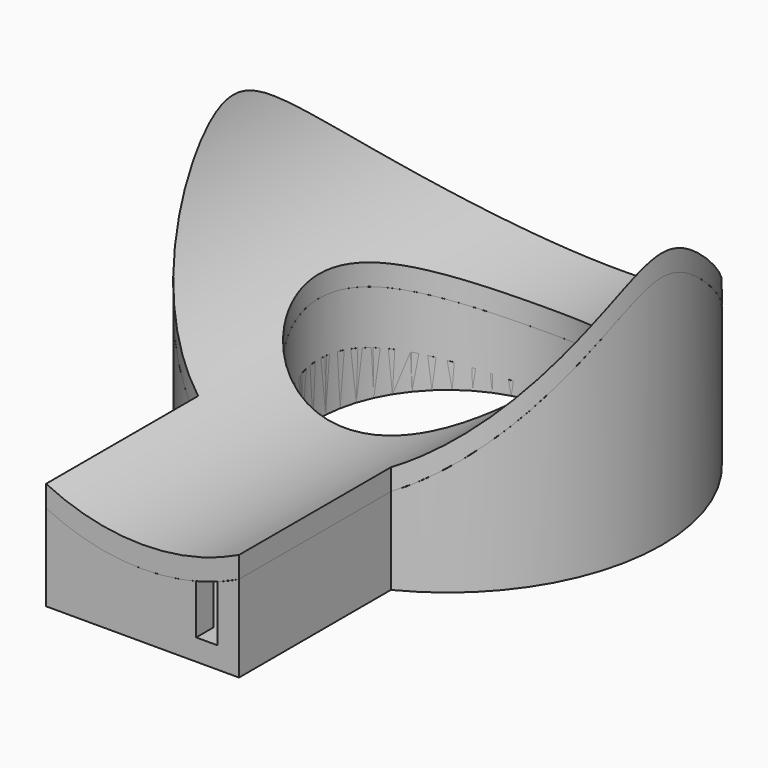
from build123d import *

# Parameters (mm, degrees)
SKETCH_R             = 20
PAD_DEPTH            = 30
SKETCH001_R          = 18
POCKET_DEPTH         = 40
POCKET001_DEPTH      = 20.001
POCKET001_DEPTH_BACK = -20.001
SKETCH014_W          = 14
SKETCH014_H          = 7.569522
POCKET010_DEPTH      = 6
SKETCH005_R          = 13
PAD002_DEPTH         = 30
POCKET003_DEPTH      = 13.001
POCKET003_DEPTH_BACK = -13.001
SKETCH007_R          = 12
POCKET004_DEPTH      = 10.650133
SKETCH003_R          = 18
PAD001_DEPTH         = 30
POCKET002_DEPTH      = 18.001
POCKET002_DEPTH_BACK = -18.001
SKETCH008_R          = 12
POCKET005_DEPTH      = 11.690292
SKETCH009_W          = 18
SKETCH009_H          = 20
PAD003_DEPTH         = 9
SKETCH010_W          = 14
SKETCH010_H          = 17
POCKET006_DEPTH      = 7
POCKET007_DEPTH      = 21
SKETCH012_W          = 14
SKETCH012_H          = 7.424547
POCKET008_DEPTH      = 25
SKETCH013_R          = 18
POCKET009_DEPTH      = 7
SKETCH021_W          = 2
SKETCH021_H          = 8
POCKET015_DEPTH      = 5
PAD004_DEPTH         = 36
POCKET011_DEPTH      = 36
SKETCH017_R          = 12
POCKET012_DEPTH      = 24.001
POCKET013_DEPTH      = 25
SKETCH019_W          = 20
SKETCH019_H          = 5
POCKET014_DEPTH      = 15
PAD005_DEPTH         = 1


with BuildPart() as base_cylinder_external:
    # Sketch → Pad (new body)
    with BuildSketch(Plane.XY):
        Circle(SKETCH_R)
    extrude(amount=PAD_DEPTH)

    # Sketch001 → Pocket (cut)
    with BuildSketch(Plane.XY):
        Circle(SKETCH001_R)
    extrude(amount=POCKET_DEPTH, mode=Mode.SUBTRACT)

    # Sketch002 → Pocket001 (cut, two sides)
    with BuildSketch(Plane.XZ) as pocket001_sk:
        with BuildLine():
            Line((-20, 22), (-20, 32))
            Line((-20, 32), (20, 32))
            Line((20, 32), (20, 22))
            ThreePointArc((-20, 22), (0, 6), (20, 22))
        make_face()
    extrude(amount=-POCKET001_DEPTH, mode=Mode.SUBTRACT)
    extrude(pocket001_sk.sketch, amount=-POCKET001_DEPTH_BACK, mode=Mode.SUBTRACT)

    # Sketch014 → Pocket010 (cut)
    with BuildSketch(Plane.XZ.offset(22)):
        with Locations((0, 5.784761)):
            Rectangle(SKETCH014_W, SKETCH014_H)
    extrude(amount=-POCKET010_DEPTH, mode=Mode.SUBTRACT)


with BuildPart() as base_cylinder_internal:
    # Sketch005 → Pad002 (new body)
    with BuildSketch(Plane.XY):
        Circle(SKETCH005_R)
    extrude(amount=PAD002_DEPTH)

    # Sketch006 → Pocket003 (cut, two sides)
    with BuildSketch(Plane.XZ) as pocket003_sk:
        with BuildLine():
            Line((-20, 22), (-20, 32))
            Line((-20, 32), (20, 32))
            Line((20, 32), (20, 22))
            ThreePointArc((-20, 22), (0, 6), (20, 22))
        make_face()
    extrude(amount=-POCKET003_DEPTH, mode=Mode.SUBTRACT)
    extrude(pocket003_sk.sketch, amount=-POCKET003_DEPTH_BACK, mode=Mode.SUBTRACT)

    # Sketch007 → Pocket004 (cut, through all)
    with BuildSketch(Plane.XY):
        Circle(SKETCH007_R)
    extrude(amount=POCKET004_DEPTH, mode=Mode.SUBTRACT)


with BuildPart() as base_cylinder_intermediate:
    # Sketch003 → Pad001 (new body)
    with BuildSketch(Plane.XY):
        Circle(SKETCH003_R)
    extrude(amount=PAD001_DEPTH)

    # Sketch004 → Pocket002 (cut, two sides)
    with BuildSketch(Plane.XZ) as pocket002_sk:
        with BuildLine():
            Line((-20, 17), (-20, 32))
            Line((-20, 32), (20, 32))
            Line((20, 32), (20, 17))
            ThreePointArc((-20, 17), (0, 1), (20, 17))
        make_face()
    extrude(amount=-POCKET002_DEPTH, mode=Mode.SUBTRACT)
    extrude(pocket002_sk.sketch, amount=-POCKET002_DEPTH_BACK, mode=Mode.SUBTRACT)

    # Sketch008 → Pocket005 (cut, through all)
    with BuildSketch(Plane.XY):
        Circle(SKETCH008_R)
    extrude(amount=POCKET005_DEPTH, mode=Mode.SUBTRACT)


with BuildPart() as base_box:
    # Sketch009 → Pad003 (new body)
    with BuildSketch(Plane.XY):
        with Locations((0, -25.588457)):
            Rectangle(SKETCH009_W, SKETCH009_H)
    extrude(amount=PAD003_DEPTH)

    # Sketch010 → Pocket006 (cut)
    with BuildSketch(Plane.XY.offset(2)):
        with Locations((0, -25.083124)):
            Rectangle(SKETCH010_W, SKETCH010_H)
    extrude(amount=POCKET006_DEPTH, mode=Mode.SUBTRACT)

    # Sketch011 → Pocket007 (cut)
    with BuildSketch(Plane.XZ.offset(15)):
        with BuildLine():
            Line((-20, 22), (-20, 32))
            Line((-20, 32), (20, 32))
            Line((20, 32), (20, 22))
            ThreePointArc((-20, 22), (0, 6), (20, 22))
        make_face()
    extrude(amount=POCKET007_DEPTH, mode=Mode.SUBTRACT)

    # Sketch012 → Pocket008 (cut)
    with BuildSketch(Plane.XZ.offset(33)):
        with Locations((0, 5.712274)):
            Rectangle(SKETCH012_W, SKETCH012_H)
    extrude(amount=-POCKET008_DEPTH, mode=Mode.SUBTRACT)

    # Sketch013 → Pocket009 (cut)
    with BuildSketch(Plane.XY.offset(9)):
        Circle(SKETCH013_R)
    extrude(amount=-POCKET009_DEPTH, mode=Mode.SUBTRACT)

    # Sketch021 → Pocket015 (cut)
    with BuildSketch(Plane.XZ.offset(37)):
        with Locations((6, 6)):
            Rectangle(SKETCH021_W, SKETCH021_H)
    extrude(amount=-POCKET015_DEPTH, mode=Mode.SUBTRACT)


with BuildPart() as top:
    # Sketch015 → Pad004 (new body, symmetric)
    with BuildSketch(Plane.XZ):
        with BuildLine():
            Line((-20, 22), (-20, 32))
            Line((-20, 32), (20, 32))
            Line((20, 32), (20, 22))
            ThreePointArc((-20, 22), (0, 6), (20, 22))
        make_face()
    extrude(amount=PAD004_DEPTH, both=True)

    # Sketch016 → Pocket011 (cut, symmetric)
    with BuildSketch(Plane.XZ):
        with BuildLine():
            Line((-20, 24), (-20, 34))
            Line((-20, 34), (20, 34))
            Line((20, 34), (20, 24))
            ThreePointArc((-20, 24), (0, 8), (20, 24))
        make_face()
    extrude(amount=POCKET011_DEPTH, both=True, mode=Mode.SUBTRACT)

    # Sketch017 → Pocket012 (cut, through all)
    with BuildSketch(Plane.XY):
        Circle(SKETCH017_R)
    extrude(amount=POCKET012_DEPTH, mode=Mode.SUBTRACT)

    # Sketch018 → Pocket013 (cut)
    with BuildSketch(Plane.XY):
        with BuildLine():
            Line((9, -38.955163), (9, -17.860571))
            ThreePointArc((9, -17.860571), (0, 20), (-9, -17.860571))
            Line((-9, -38.955163), (-9, -17.860571))
            Line((-9, -38.955163), (-27, -38.955163))
            Line((-27, -38.955163), (-27, 41.044837))
            Line((-27, 41.044837), (27, 41.044837))
            Line((27, 41.044837), (27, -38.955163))
            Line((27, -38.955163), (9, -38.955163))
        make_face()
    extrude(amount=POCKET013_DEPTH, mode=Mode.SUBTRACT)

    # Sketch019 → Pocket014 (cut)
    with BuildSketch(Plane.XY):
        with Locations((0, -38.1)):
            Rectangle(SKETCH019_W, SKETCH019_H)
    extrude(amount=POCKET014_DEPTH, mode=Mode.SUBTRACT)

    # Sketch020 → Pad005 (join)
    with BuildSketch(Plane.XY.offset(7)):
        Polygon((-6.8, -20.975668), (-6.8, -33.5), (6.8, -33.5), (6.8, -20.975668), (5.8, -20.975668), (5.8, -32.5), (-5.8, -32.5), (-5.8, -20.975668), align=None)
    extrude(amount=-PAD005_DEPTH)


solid = Compound([base_cylinder_external.part, base_cylinder_internal.part, base_cylinder_intermediate.part, base_box.part, top.part])
